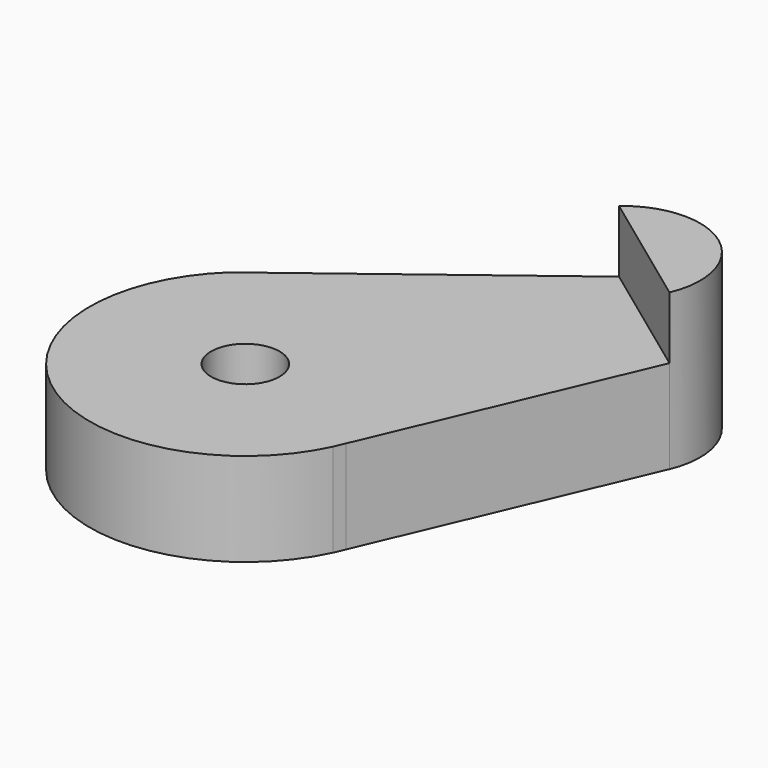
from build123d import *

# Parameters (mm, degrees)
F0_R     = 1.397
F1_DEPTH = 3.81
F3_DEPTH = 2.54


with BuildPart() as f1:
    # F0 (on Top) → F1 (new body)
    with BuildSketch(Plane.XY):
        with BuildLine():
            Line((5.533083, 12.148859), (-3.298107, 5.426324))
            Line((-3.298107, 5.426324), (-4.35233, 4.623822))
            ThreePointArc((-4.35233, 4.623822), (-3.728002, -5.140476), (5.747128, -2.700559))
            Line((5.747128, -2.700559), (5.927967, -2.276335))
            Line((5.927967, -2.276335), (10.518124, 8.491529))
            ThreePointArc((10.518124, 8.491529), (9.475549, 12.29651), (5.533083, 12.148859))
        make_face()
        Circle(F0_R, mode=Mode.SUBTRACT)
    extrude(amount=F1_DEPTH)

    # F2 (on face) → F3 (join)
    with BuildSketch(Plane.XY.offset(3.81)):
        with BuildLine():
            Line((5.533083, 12.148859), (10.518124, 8.491529))
            ThreePointArc((10.518124, 8.491529), (9.475549, 12.29651), (5.533083, 12.148859))
        make_face()
    extrude(amount=F3_DEPTH)


solid = f1.part
